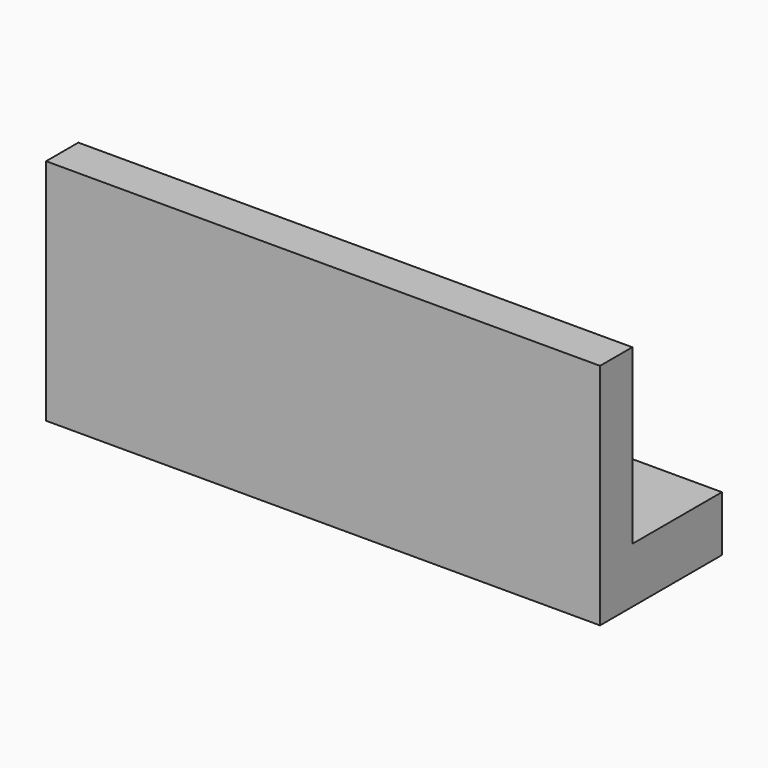
from build123d import *

# Parameters (mm, degrees)
F0_W     = 80
F0_H     = 15
F1_DEPTH = 8
F2_W     = 80
F2_H     = 5.823
F3_DEPTH = 25
F4_DEPTH = 7


with BuildPart() as f1:
    # F0 (on Top) → F1 (new body)
    with BuildSketch(Plane.XY):
        with Locations((17.0978596434, -1.9628690071)):
            Rectangle(F0_W, F0_H)
    extrude(amount=F1_DEPTH)

    # F2 (on face) → F3 (join)
    with BuildSketch(Plane.XY.offset(8)):
        with Locations((17.0978596434, -6.5513690071)):
            Rectangle(F2_W, F2_H)
    extrude(amount=F3_DEPTH)

    # F4 (add): a face of the model
    f4_faces = [f1.faces().sort_by_distance(p)[0] for p in [
        (17.0978596434, 5.5371309929, 4),
    ]]
    extrude(f4_faces, amount=F4_DEPTH)


solid = f1.part
